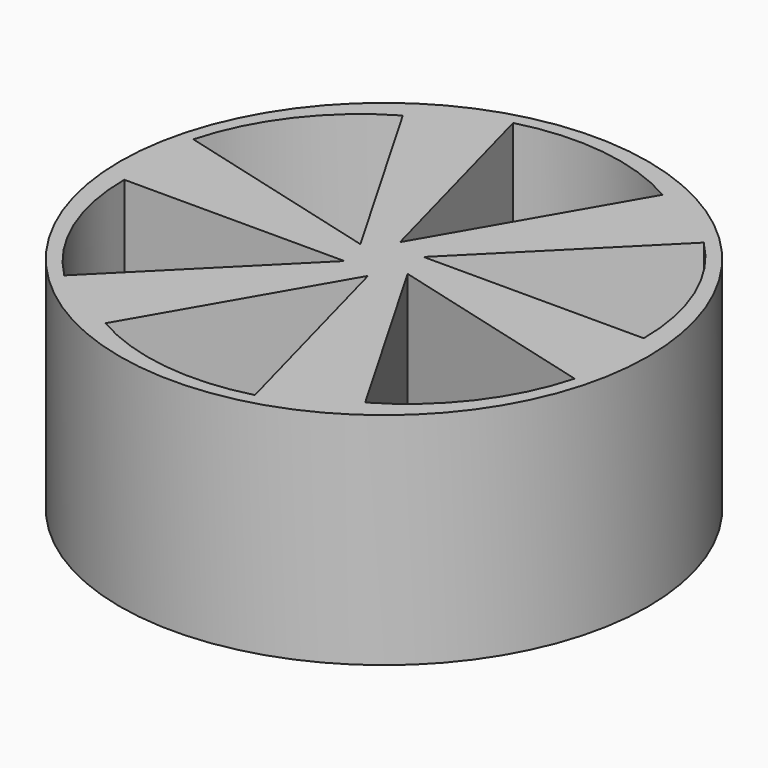
from build123d import *

# Parameters (mm, degrees)
CYLINDER001_W     = 10
CYLINDER001_H     = 10
CYLINDER001_ANGLE = 45
ARRAY_COUNT       = 6
CYLINDER_R        = 12
CYLINDER_DEPTH    = 10


with BuildPart() as array:
    # Cylinder001 → Cylinder001 (revolve)
    with BuildSketch(Plane(origin=(1, 1, 1), x_dir=(1, 0, 0), z_dir=(0, -1, 0))):
        with Locations((5, 5)):
            Rectangle(CYLINDER001_W, CYLINDER001_H)
    revolve(axis=Axis((1, 1, 1), (0, 0, 1)), revolution_arc=CYLINDER001_ANGLE)

    # Array: Array ×6 about axis
    array_axis = Axis((0, 0, 0), (0, 0, 1))


with BuildPart() as array_1:
    add(array.part)
    for i in range(1, ARRAY_COUNT):
        add(array.part.rotate(array_axis, i * 360 / ARRAY_COUNT))


with BuildPart() as cut:
    # Cylinder → Cylinder (new body)
    with BuildSketch(Plane.XY):
        Circle(CYLINDER_R)
    extrude(amount=CYLINDER_DEPTH)

    # Cut: cut Array
    add(array_1.part, mode=Mode.SUBTRACT)


solid = cut.part
